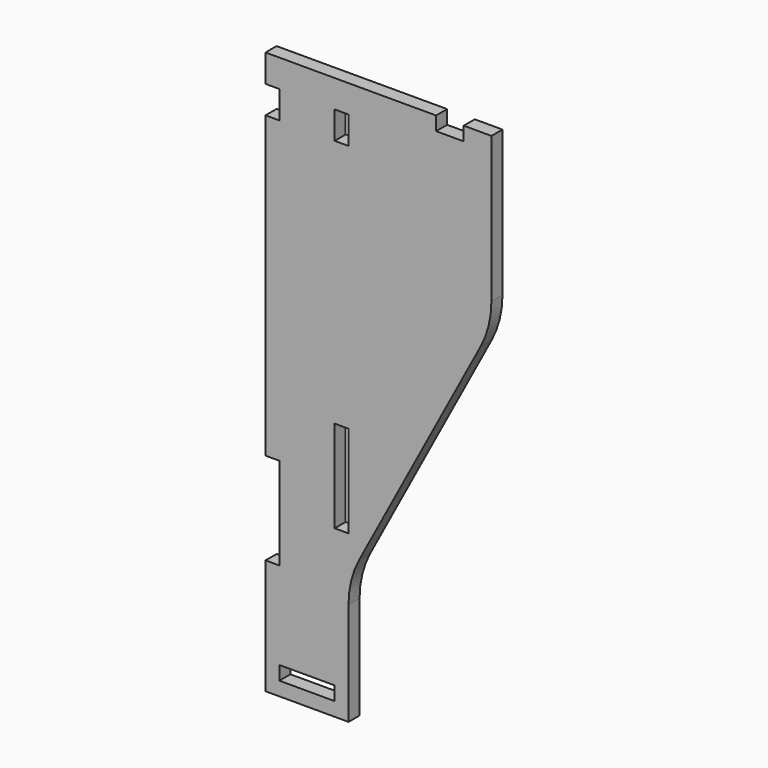
from build123d import *

# Parameters (mm, degrees)
F0_W     = 12
F0_H     = 3
F0_W_2   = 3
F0_H_2   = 20
F0_H_3   = 6
F1_DEPTH = 1.5
F2_DEPTH = 1.5


with BuildPart() as f1:
    # F0 (on Front) → F1 (new body, symmetric)
    with BuildSketch(Plane.XZ):
        with BuildLine():
            Line((-147.199457, 90.198808), (-184.199457, 90.198808))
            Line((-184.199457, 90.198808), (-184.199457, 84.198808))
            Line((-184.199457, 84.198808), (-181.199457, 84.198808))
            Line((-181.199457, 84.198808), (-181.199457, 78.198808))
            Line((-181.199457, 78.198808), (-184.199457, 78.198808))
            Line((-184.199457, 78.198808), (-184.199457, 13.198808))
            Line((-184.199457, 13.198808), (-181.199457, 13.198808))
            Line((-181.199457, 13.198808), (-181.199457, -6.801192))
            Line((-181.199457, -6.801192), (-184.199457, -6.801192))
            Line((-184.199457, -6.801192), (-184.199457, -31.801192))
            Line((-184.199457, -31.801192), (-166.199457, -31.801192))
            Line((-166.199457, -31.801192), (-166.199457, -9.425114))
            ThreePointArc((-166.199457, -9.425114), (-165.600471, -4.567062), (-163.83939, 0))
            Line((-163.83939, 0), (-137.559524, 49.18509))
            ThreePointArc((-137.559524, 49.18509), (-135.798444, 53.752151), (-135.199457, 58.610203))
            Line((-135.199457, 58.610203), (-135.199457, 90.198808))
            Line((-135.199457, 90.198808), (-141.199457, 90.198808))
            Line((-141.199457, 90.198808), (-141.199457, 87.198808))
            Line((-141.199457, 87.198808), (-147.199457, 87.198808))
            Line((-147.199457, 87.198808), (-147.199457, 90.198808))
        make_face()
        with Locations((-175.199457, -27.301192)):
            Rectangle(F0_W, F0_H, mode=Mode.SUBTRACT)
        with Locations((-167.699457, 14.198808)):
            Rectangle(F0_W_2, F0_H_2, mode=Mode.SUBTRACT)
        with Locations((-167.699457, 81.198808)):
            Rectangle(F0_W_2, F0_H_3, mode=Mode.SUBTRACT)
    extrude(amount=F1_DEPTH, both=True)

    # F0 (on Front) → F2 (cut, symmetric)
    with BuildSketch(Plane.XZ):
        with Locations((-175.199457, -27.301192)):
            Rectangle(F0_W, F0_H)
    extrude(amount=F2_DEPTH, both=True, mode=Mode.SUBTRACT)


solid = f1.part
